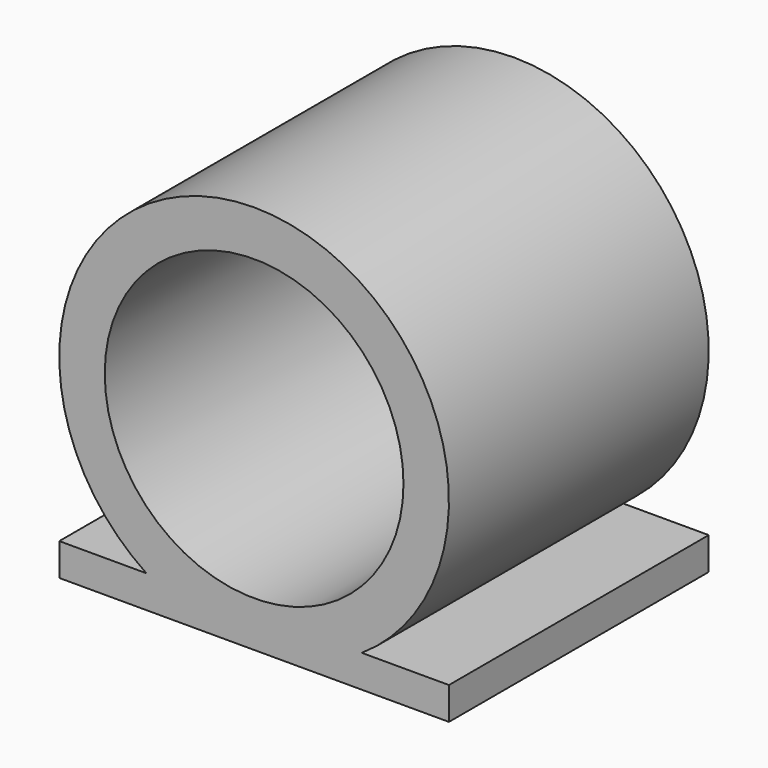
from build123d import *

# Parameters (mm, degrees)
F0_R     = 3
F0_R_2   = 2.3
F1_DEPTH = 5
F3_START = -2.5
F2_W     = 6
F2_H     = 5
F3_DEPTH = 0.5


with BuildPart() as f1:
    # F0 (on Front) → F1 (new body)
    with BuildSketch(Plane.XZ):
        Circle(F0_R)
        Circle(F0_R_2, mode=Mode.SUBTRACT)
    extrude(amount=F1_DEPTH)

    # F2 (on Top) → F3 (join)
    with BuildSketch(Plane.XY.offset(F3_START)):
        with Locations((0, -2.5)):
            Rectangle(F2_W, F2_H)
    extrude(amount=-F3_DEPTH)


solid = f1.part
